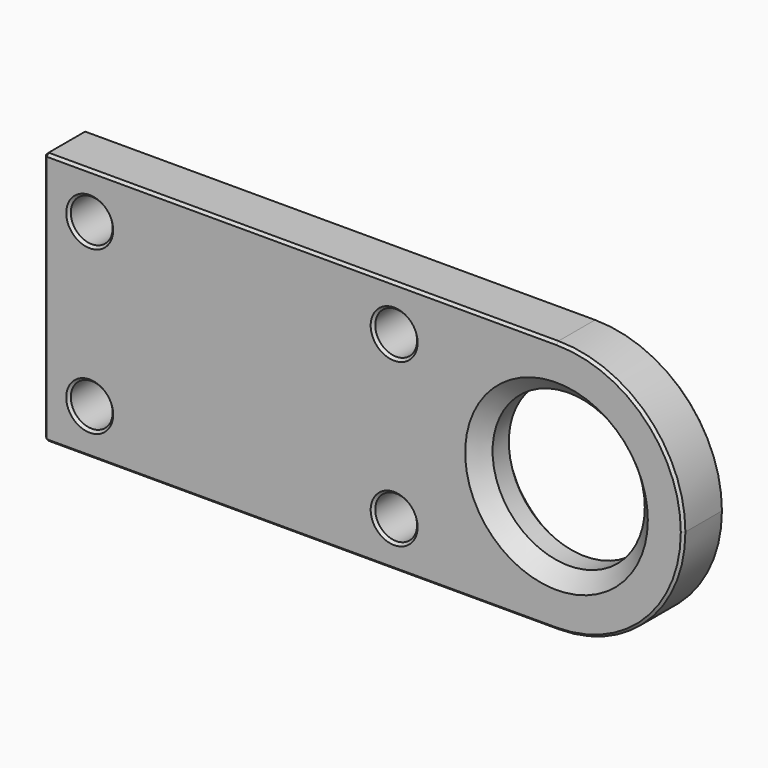
from build123d import *

# Parameters (mm, degrees)
F0_R     = 8.25
F0_R_2   = 30
F1_DEPTH = 20
F2_SIZE  = 6
F3_SIZE  = 1


with BuildPart() as f1:
    # F0 (on Front) → F1 (new body)
    with BuildSketch(Plane.XZ):
        with BuildLine():
            Line((-126, -50), (76, -50))
            ThreePointArc((76, -50), (111.355339, -35.355339), (126, 0))
            ThreePointArc((126, 0), (111.355339, 35.355339), (76, 50))
            Line((76, 50), (-126, 50))
            Line((-126, 50), (-126, -50))
        make_face()
        with Locations((-108, -32)):
            Circle(F0_R, mode=Mode.SUBTRACT)
        with Locations((12, -32)):
            Circle(F0_R, mode=Mode.SUBTRACT)
        with Locations((-108, 32)):
            Circle(F0_R, mode=Mode.SUBTRACT)
        with Locations((76, 0)):
            Circle(F0_R_2, mode=Mode.SUBTRACT)
        with Locations((12, 32)):
            Circle(F0_R, mode=Mode.SUBTRACT)
    extrude(amount=F1_DEPTH)

    # F2
    f2_edges = [f1.edges().sort_by_distance(p)[0] for p in [
        (46, -20, 0),
        (46, 0, 0),
    ]]
    chamfer(f2_edges, length=F2_SIZE)

    # F3
    f3_edges = [f1.edges().sort_by_distance(p)[0] for p in [
        (-116.25, -20, -32),
        (-116.25, -20, 32),
        (3.75, -20, -32),
        (3.75, -20, 32),
        (-25, -20, -50),
        (-126, -20, 0),
        (-25, -20, 50),
        (126, -20, 0),
        (-126, -10, -50),
        (-126, 0, 0),
        (-25, 0, -50),
        (-25, 0, 50),
        (-126, -10, 50),
        (-116.25, 0, -32),
        (-116.25, 0, 32),
        (3.75, 0, -32),
        (3.75, 0, 32),
        (126, 0, 0),
    ]]
    chamfer(f3_edges, length=F3_SIZE)


solid = f1.part
